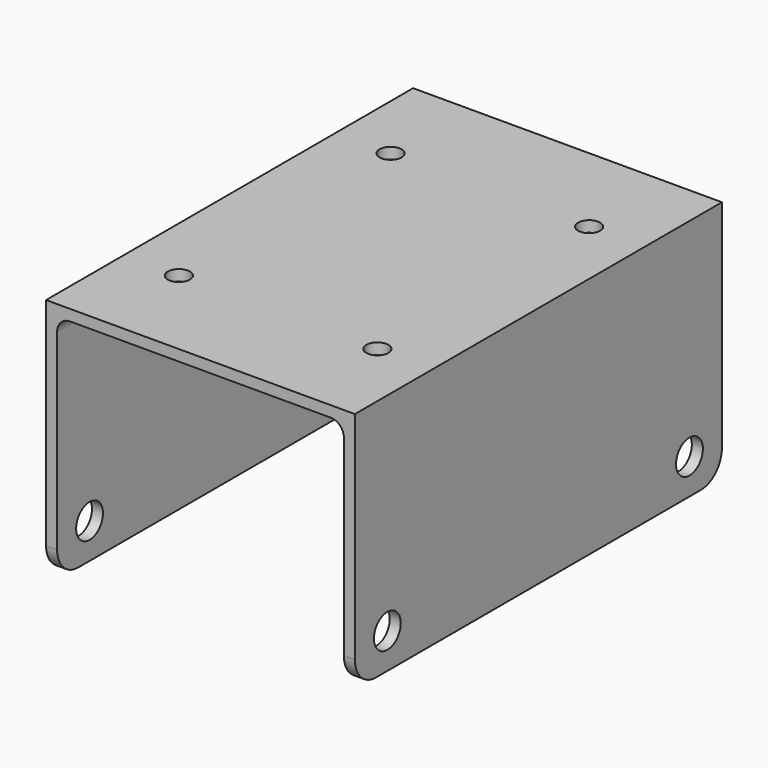
from build123d import *

# Parameters (mm, degrees)
F0_R          = 4.826
F1_DEPTH      = 44.45
F1_DEPTH_BACK = 44.45
F3_DEPTH      = 76.2
F3_DEPTH_BACK = 76.2
F4_R          = 3.175
F5_DEPTH      = 25.4


with BuildPart() as f1:
    # F0 (on Right) → F1 (new body, two sides)
    with BuildSketch(Plane.YZ) as f1_sk:
        with BuildLine():
            Line((-58.42, -10.16), (58.42, -10.16))
            ThreePointArc((58.42, -10.16), (63.808154, -7.928154), (66.04, -2.54))
            Line((66.04, -2.54), (66.04, 59.69))
            Line((66.04, 59.69), (-66.04, 59.69))
            Line((-66.04, 59.69), (-66.04, -2.54))
            ThreePointArc((-66.04, -2.54), (-63.808154, -7.928154), (-58.42, -10.16))
        make_face()
        with Locations((-54.356, 0)):
            Circle(F0_R, mode=Mode.SUBTRACT)
        with Locations((54.356, 0)):
            Circle(F0_R, mode=Mode.SUBTRACT)
    extrude(amount=F1_DEPTH)
    extrude(f1_sk.sketch, amount=-F1_DEPTH_BACK)

    # F2 (on Front) → F3 (cut, two sides)
    with BuildSketch(Plane.XZ) as f3_sk:
        with BuildLine():
            Line((41.275, -10.16), (41.275, -2.54))
            Line((41.275, -2.54), (41.275, 52.705))
            ThreePointArc((41.275, 52.705), (40.159077, 55.399077), (37.465, 56.515))
            Line((37.465, 56.515), (-37.465, 56.515))
            ThreePointArc((-37.465, 56.515), (-40.159077, 55.399077), (-41.275, 52.705))
            Line((-41.275, 52.705), (-41.275, -2.54))
            Line((-41.275, -2.54), (-41.275, -10.16))
            Line((-41.275, -10.16), (41.275, -10.16))
        make_face()
    extrude(amount=F3_DEPTH, mode=Mode.SUBTRACT)
    extrude(f3_sk.sketch, amount=-F3_DEPTH_BACK, mode=Mode.SUBTRACT)

    # F4 (on face) → F5 (cut)
    with BuildSketch(Plane.XY.offset(59.69)):
        with Locations((28.575, -38.1)):
            Circle(F4_R)
        with Locations((-28.575, -38.1)):
            Circle(F4_R)
        with Locations((-28.575, 38.1)):
            Circle(F4_R)
        with Locations((28.575, 38.1)):
            Circle(F4_R)
    extrude(amount=-F5_DEPTH, mode=Mode.SUBTRACT)


solid = f1.part
